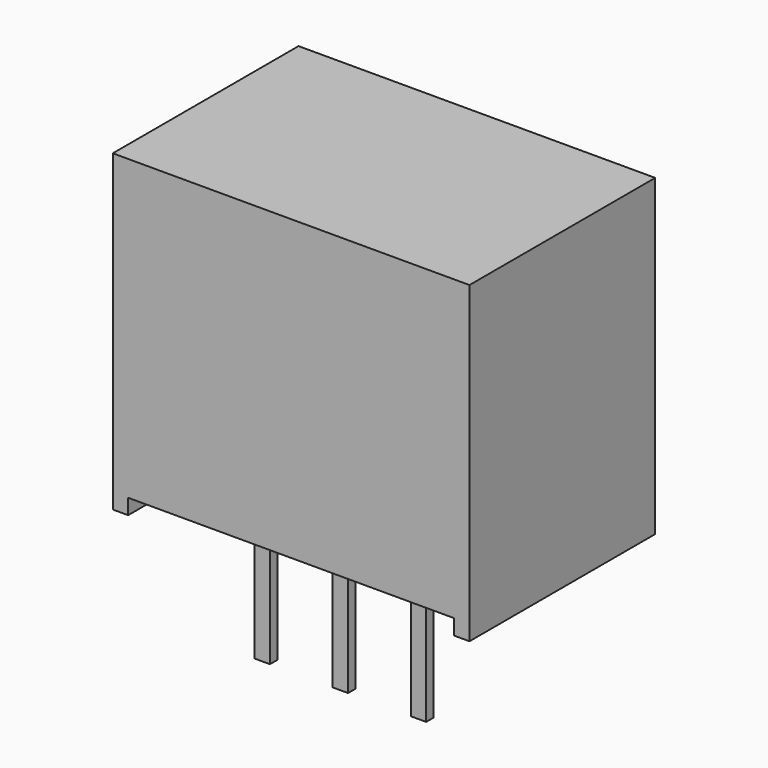
from build123d import *

# Parameters (mm, degrees)
PAD_DEPTH           = 2.15
PAD_DEPTH_BACK      = 5.4
SKETCH001_W         = 0.5
SKETCH001_H         = 0.3
PAD001_DEPTH        = 0.6
PAD001_DEPTH_BACK   = 4.1
LINEARPATTERN_COUNT = 3
LINEARPATTERN_PITCH = 2.54


with BuildPart() as part:
    # Sketch → Pad (new body, two sides)
    with BuildSketch(Plane.XZ) as pad_sk:
        Polygon((-2.76, 0.5), (7.84, 0.5), (7.84, 0), (8.34, 0), (8.34, 10.2), (-3.26, 10.2), (-3.26, 0), (-2.76, 0), align=None)
    extrude(amount=PAD_DEPTH)
    extrude(pad_sk.sketch, amount=-PAD_DEPTH_BACK)

    # Sketch001 → Pad001 (join, two sides)
    with BuildSketch(Plane.XY) as pad001_sk:
        Rectangle(SKETCH001_W, SKETCH001_H)
    pad001 = extrude(amount=PAD001_DEPTH) + extrude(pad001_sk.sketch, amount=-PAD001_DEPTH_BACK)

    # LinearPattern: Pad001 ×3
    with Locations(*[(i * LINEARPATTERN_PITCH, 0, 0) for i in range(1, LINEARPATTERN_COUNT)]):
        add(pad001)


solid = part.part
